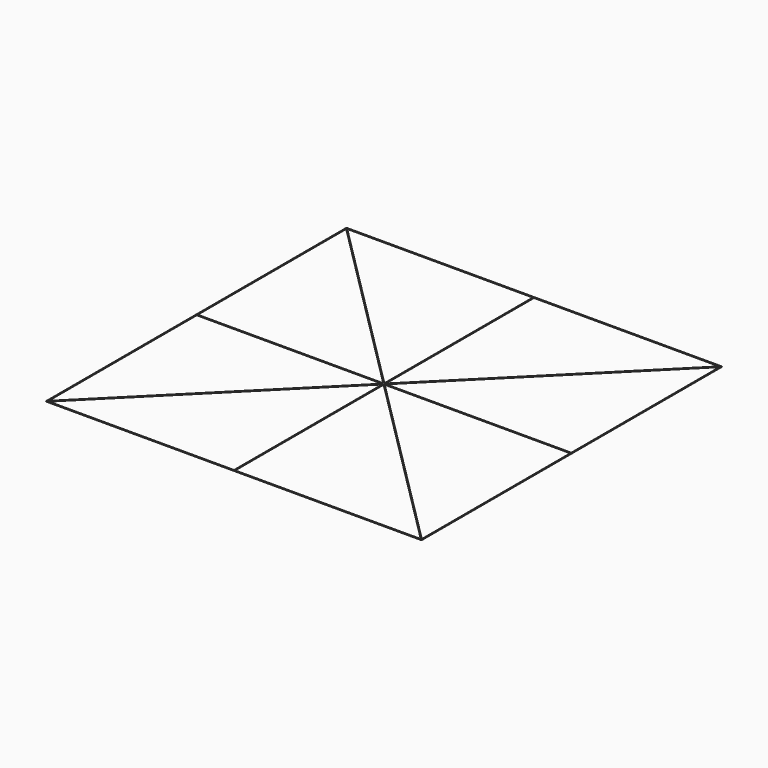
from build123d import *

# Parameters (mm, degrees)
F1_W     = 254
F1_H     = 254
F2_DEPTH = 0.254


with BuildPart() as f2:
    # F1 (on Top) → F2 (new body)
    with BuildSketch(Plane.XY):
        Rectangle(F1_W, F1_H)
        Polygon((-0.254, -126.492), (-126.13279, -126.492), (-0.254, -0.61321), align=None, mode=Mode.SUBTRACT)
        Polygon((-0.61321, -0.254), (-126.492, -126.13279), (-126.492, -0.254), align=None, mode=Mode.SUBTRACT)
        Polygon((126.13279, -126.492), (0.254, -126.492), (0.254, -0.61321), align=None, mode=Mode.SUBTRACT)
        Polygon((126.492, -0.254), (126.492, -126.13279), (0.61321, -0.254), align=None, mode=Mode.SUBTRACT)
        Polygon((-126.492, 0.254), (-126.492, 126.13279), (-0.61321, 0.254), align=None, mode=Mode.SUBTRACT)
        Polygon((-0.254, 0.61321), (-126.13279, 126.492), (-0.254, 126.492), align=None, mode=Mode.SUBTRACT)
        Polygon((0.61321, 0.254), (126.492, 126.13279), (126.492, 0.254), align=None, mode=Mode.SUBTRACT)
        Polygon((0.254, 0.61321), (0.254, 126.492), (126.13279, 126.492), align=None, mode=Mode.SUBTRACT)
    extrude(amount=F2_DEPTH)


solid = f2.part
